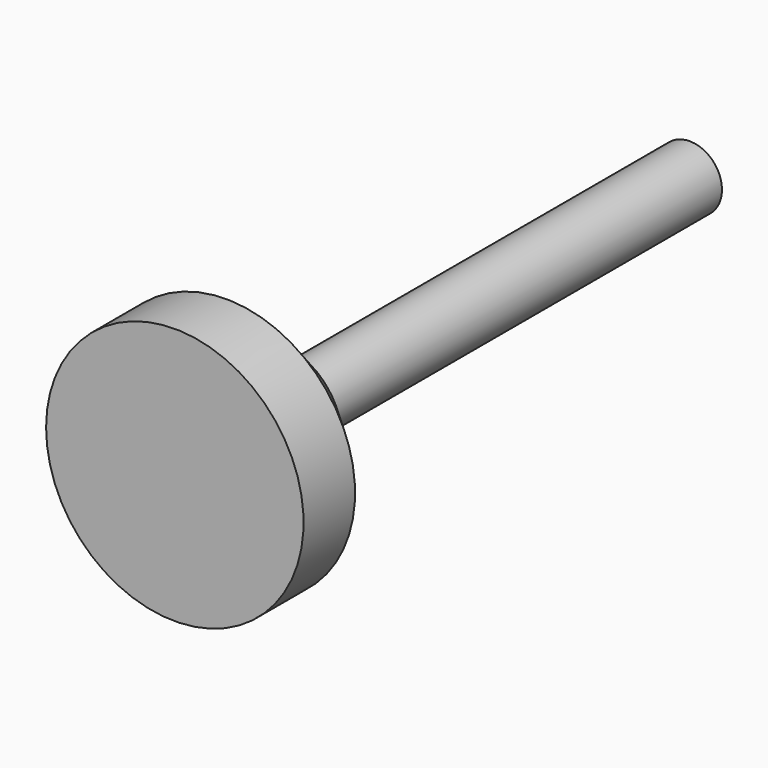
from build123d import *


with BuildPart() as part:
    # Sketch → Revolution (revolve)
    with BuildSketch(Plane.XY):
        Polygon((0, 0), (-4, 0), (-4, 2), (-2, 4), (-1, 4.5), (-1, 20), (0, 20), align=None)
    revolve(axis=Axis((0, 0, 0), (0, 1, 0)))


solid = part.part
